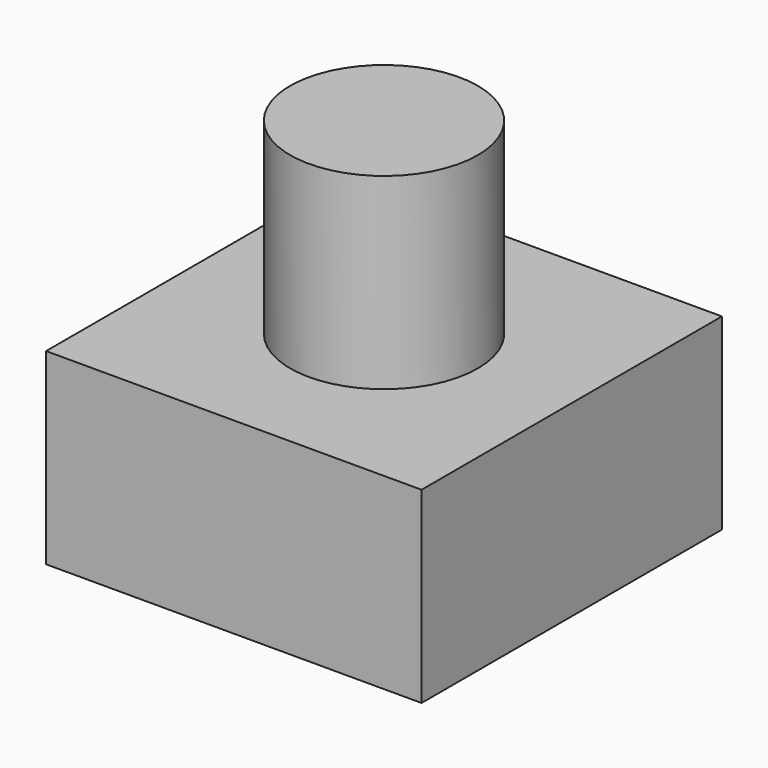
from build123d import *

# Parameters (mm, degrees)
F0_W     = 50
F0_H     = 50
F1_DEPTH = 25
F2_R     = 12.5
F3_DEPTH = 25
F4_R     = 12.5
F5_DEPTH = 25


with BuildPart() as f1:
    # F0 (on Top) → F1 (new body)
    with BuildSketch(Plane.XY):
        with Locations((25, 25)):
            Rectangle(F0_W, F0_H)
    extrude(amount=F1_DEPTH)

    # F2 (on face) → F3 (cut)
    with BuildSketch(Plane.XY.offset(25)):
        with Locations((25, 25)):
            Circle(F2_R)
    extrude(amount=-F3_DEPTH, mode=Mode.SUBTRACT)


with BuildPart() as f5:
    # F4 (on face) → F5 (new body)
    with BuildSketch(Plane.XY.offset(25)):
        with Locations((25, 25)):
            Circle(F4_R)
    extrude(amount=F5_DEPTH)


solid = Compound([f1.part, f5.part])
